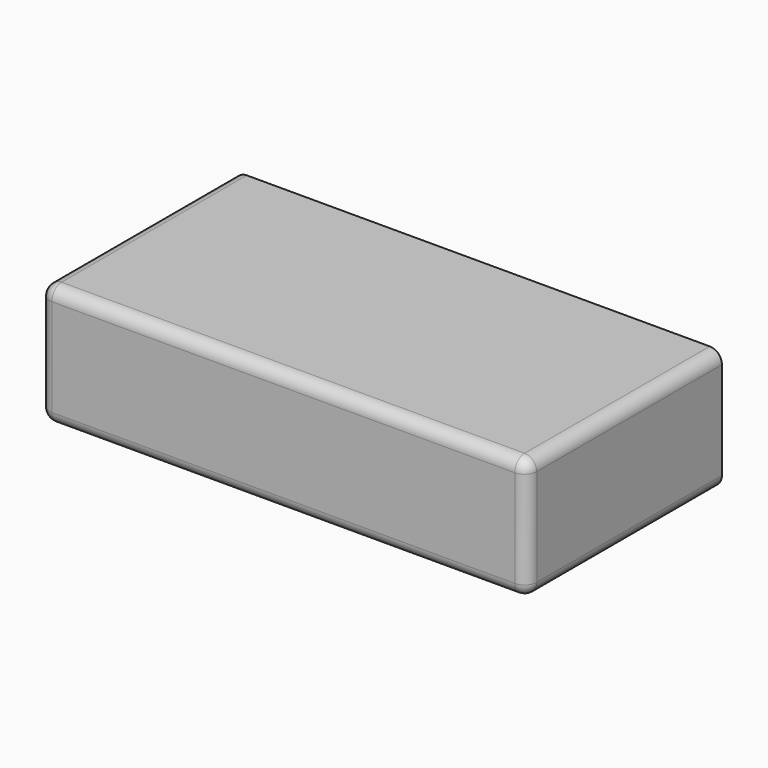
from build123d import *

# Parameters (mm, degrees)
F0_W     = 4
F0_H     = 1
F1_DEPTH = 1
F2_R     = 0.1


with BuildPart() as f1:
    # F0 (on Front) → F1 (new body, symmetric)
    with BuildSketch(Plane.XZ):
        Rectangle(F0_W, F0_H)
    extrude(amount=F1_DEPTH, both=True)

    # F2
    f2_edges = [f1.edges().sort_by_distance(p)[0] for p in [
        (0, -1, -0.5),
        (0, -1, 0.5),
        (2, -1, 0),
        (-2, -1, 0),
        (-2, 0, 0.5),
        (2, 0, 0.5),
        (2, 0, -0.5),
        (-2, 0, -0.5),
    ]]
    fillet(f2_edges, radius=F2_R)


solid = f1.part
